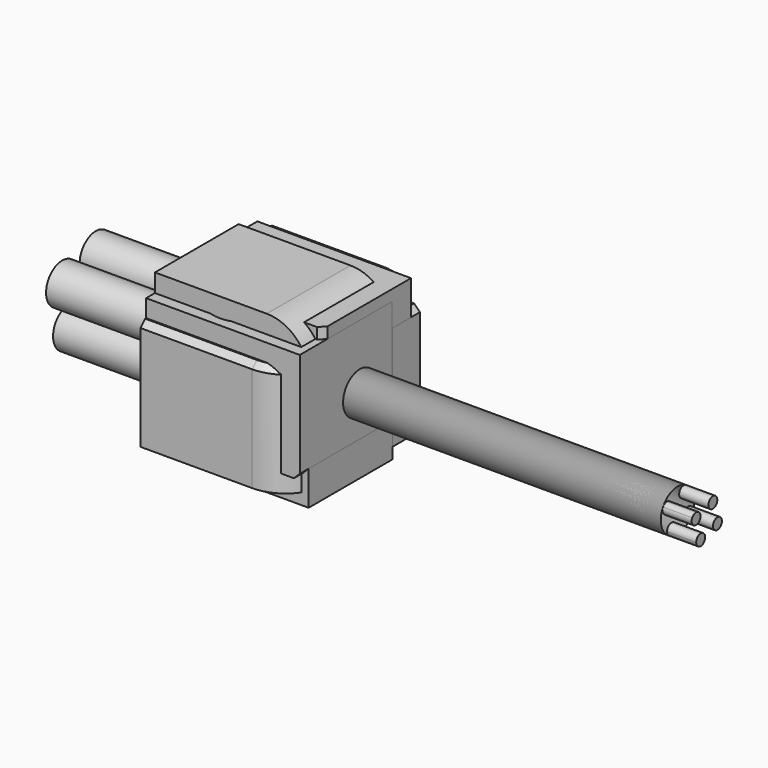
from build123d import *

# Parameters (mm, degrees)
F0_W      = 133.6153559387
F0_H      = 136.7026269436
F0_R      = 28.9591710101
F1_DEPTH  = 96.0241425782
F2_R      = 18.2070776857
F3_DEPTH  = 409.8200183362
F4_R      = 36.3910379304
F5_R      = 17.5900557086
F6_DEPTH  = 107.4507962912
F7_SIZE   = 5.08
F9_DEPTH  = 25.4
F10_COUNT = 4


with BuildPart() as f1:
    # F0 (on Front) → F1 (new body)
    with BuildSketch(Plane.XZ):
        with Locations((-21.7852015048, -3.0845105648)):
            Rectangle(F0_W, F0_H)
        with Locations((-31.0718379915, 28.105199337)):
            Circle(F0_R, mode=Mode.SUBTRACT)
    extrude(amount=F1_DEPTH)

    # F2 (on face) → F3 (join)
    with BuildSketch(Plane(origin=(-88.5928794742, 0, 0), x_dir=(0, -1, 0), z_dir=(-1, 0, 0))):
        with Locations((55.6408986449, 0)):
            Circle(F2_R)
    extrude(amount=-F3_DEPTH)

    # F4
    f4_edges = [f1.edges().sort_by_distance(p)[0] for p in [
        (45.022476, -48.012071, -71.435824),
    ]]
    fillet(f4_edges, radius=F4_R)

    # F5 (on face) → F6 (join)
    with BuildSketch(Plane(origin=(-88.5928794742, 0, 0), x_dir=(0, -1, 0), z_dir=(-1, 0, 0))):
        with Locations((33.5799194872, -14.4235752523)):
            Circle(F5_R)
    extrude(amount=F6_DEPTH)

    # F7
    f7_edges = [f1.edges().sort_by_distance(p)[0] for p in [
        (-39.98072, -96.024143, -71.435824),
    ]]
    chamfer(f7_edges, length=F7_SIZE)

    # F8 (on face) → F9 (join)
    with BuildSketch(Plane.YZ.offset(321.227138862)):
        with BuildLine():
            ThreePointArc((-46.6371799341, 15.8250032301), (-53.2514411527, 9.1477483488), (-44.1769190939, 11.5946307778))
            ThreePointArc((-44.1769190939, 11.5946307778), (-44.8367041033, 14.0415132069), (-46.6371799341, 15.8250032301))
        make_face()
    extrude(amount=F9_DEPTH)


with BuildPart() as f10_1:
    # F10: instance of F1
    add(f1.part.rotate(Axis((-88.5928794742, -55.6408986449, 0), (-1, 0, 0)), 1 * 360 / F10_COUNT))


with BuildPart() as f10_2:
    # F10: instance of F1
    add(f1.part.rotate(Axis((-88.5928794742, -55.6408986449, 0), (-1, 0, 0)), 2 * 360 / F10_COUNT))


with BuildPart() as f10_3:
    # F10: instance of F1
    add(f1.part.rotate(Axis((-88.5928794742, -55.6408986449, 0), (-1, 0, 0)), 3 * 360 / F10_COUNT))


solid = Compound([f1.part, f10_1.part, f10_2.part, f10_3.part])
